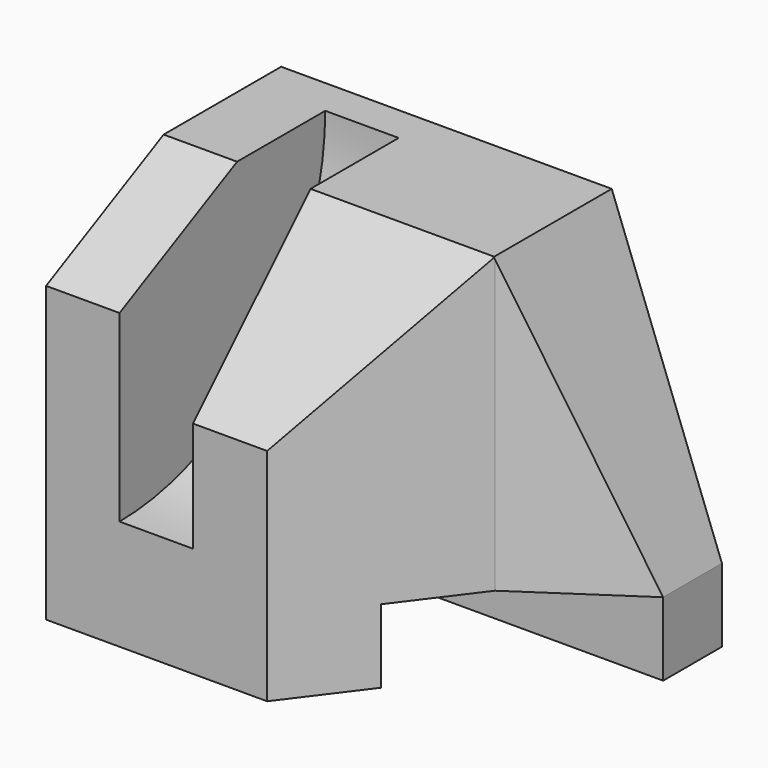
from build123d import *

# Parameters (mm, degrees)
F0_W      = 60
F0_H      = 40
F1_DEPTH  = 50
F2_W      = 20
F2_H      = 10
F3_DEPTH  = 60
F7_DEPTH  = 10
F10_DEPTH = 25
F11_R     = 35
F12_DEPTH = 10
F15_DEPTH = 50
F17_DEPTH = 50.001
F19_DEPTH = 20.1260024637


with BuildPart() as f1:
    # F0 (on Top) → F1 (new body)
    with BuildSketch(Plane.XY):
        with Locations((30, 20)):
            Rectangle(F0_W, F0_H)
    extrude(amount=F1_DEPTH)

    # F2 (on face) → F3 (cut, through all)
    with BuildSketch(Plane.YZ.offset(60)):
        with Locations((20, 5)):
            Rectangle(F2_W, F2_H)
    extrude(amount=-F3_DEPTH, mode=Mode.SUBTRACT)

    # F6 (on face) → F7 (cut, through all)
    with BuildSketch(Plane(origin=(0, 0, 0), x_dir=(0, -1, 0), z_dir=(-1, 0, 0))):
        Polygon((0, 40), (0, 50), (-20, 50), align=None)
    extrude(amount=-F7_DEPTH, mode=Mode.SUBTRACT)

    # F9 (on offset) → F10 (cut, through all)
    with BuildSketch(Plane.YZ.offset(20)):
        Polygon((20, 50), (0, 50), (0, 30), align=None)
    extrude(amount=F10_DEPTH, mode=Mode.SUBTRACT)

    # F11 (on offset) → F12 (cut, through all)
    with BuildSketch(Plane.YZ.offset(10)):
        with Locations((0, 50)):
            Circle(F11_R)
    extrude(amount=F12_DEPTH, mode=Mode.SUBTRACT)

    # F14 (on offset) → F15 (cut)
    with BuildSketch(Plane.XY.offset(50)):
        Polygon((30.0937518477, 0), (45.0937518477, 0), (45.0937518477, 20), align=None)
    extrude(amount=-F15_DEPTH, mode=Mode.SUBTRACT)

    # F16 (on face) → F17 (cut, through all)
    with BuildSketch(Plane.XY.offset(50)):
        Polygon((60, 0), (60, 30), (45.0937518477, 20), (45.0937518477, 0), align=None)
    extrude(amount=-F17_DEPTH, mode=Mode.SUBTRACT)

    # F18 (on face) → F19 (cut, through all)
    with BuildSketch(Plane(origin=(0, 40, 0), x_dir=(-1, 0, 0), z_dir=(0, 1, 0))):
        Polygon((-45, 50), (-60, 50), (-60, 10), align=None)
    extrude(amount=-F19_DEPTH, mode=Mode.SUBTRACT)


solid = f1.part
